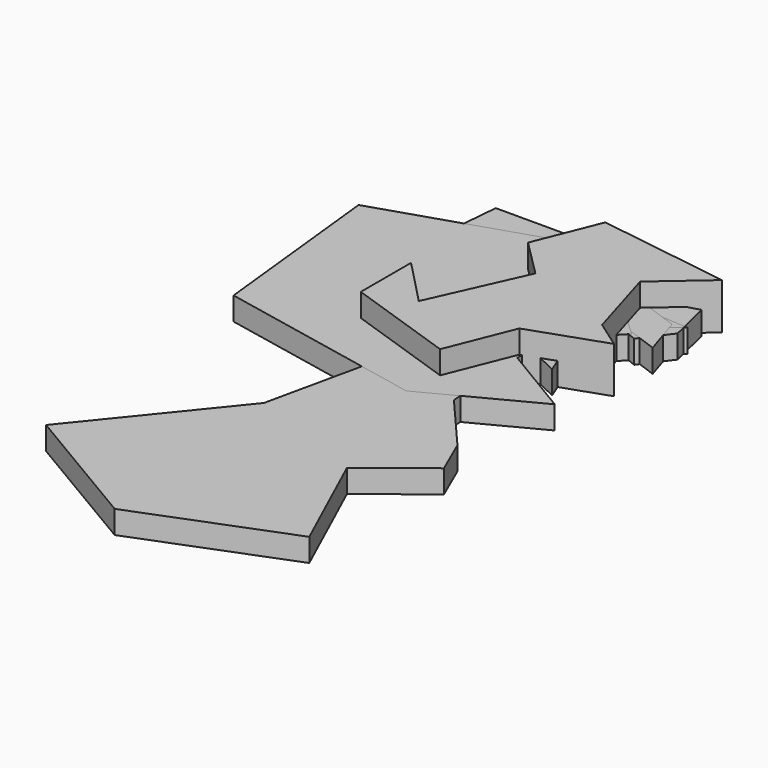
from build123d import *

# Parameters (mm, degrees)
PAD_DEPTH    = 5
PAD001_DEPTH = 5
PAD002_DEPTH = 5
PAD003_DEPTH = 5
PAD004_DEPTH = 5
PAD005_DEPTH = 10


with BuildPart() as body:
    # Sketch → Pad (new body)
    with BuildSketch(Plane.XY):
        Polygon((16.407789, 0), (14.20999, 9.292012), (7.459578, 7.408173), (-1.802612, 16.670362), (-17.344254, 4.268449), (-13.576584, -9.860312), (5.104784, -3.266889), (11.855196, -6.092639), align=None)
    extrude(amount=PAD_DEPTH)


with BuildPart() as body_1:
    # Body placement: moved
    add(body.part.moved(Location((-16.407789, -16.670362, 0))))


with BuildPart() as body001:
    # Sketch002 → Pad001 (new body)
    with BuildSketch(Plane.XY):
        Polygon((0, 23.425846), (7.120159, 10.498806), (22.492847, 9.450668), (8.168289, -2.078853), (14.107744, -16.752783), (0, -10.114574), (-11.04756, -18.150301), (-7.903162, 0), (-19.083288, 10.498806), (-6.505643, 10.498806), align=None)
    extrude(amount=PAD001_DEPTH)


with BuildPart() as body001_1:
    # Body001 placement: moved
    add(body001.part.moved(Location((-22.492847, -23.425846, 0))))


with BuildPart() as body002:
    # Sketch003 → Pad002 (new body)
    with BuildSketch(Plane.XY):
        Polygon((13.758363, 0), (12.01147, 9.80005), (-4.409369, 11.896324), (-28.516535, 11.896324), (-29.564672, 0), (-24.673361, -3.476364), (-26.769636, -16.752783), (-8.601904, -11.162712), (4.325122, -16.054022), (16.5534, -8.717056), (24.239746, -11.512094), (21.44471, -2.777609), align=None)
    extrude(amount=PAD002_DEPTH)


with BuildPart() as body002_1:
    # Body002 placement: moved
    add(body002.part.moved(Location((-24.239746, -11.896324, 0))))


with BuildPart() as body003:
    # Sketch004 → Pad003 (new body)
    with BuildSketch(Plane.XY):
        Polygon((9.915189, -22.692234), (22.842228, -12.56023), (19.348436, -4.524508), (8.517671, 8.05315), (7.120159, 29.365294), (6.421397, 49.279919), (2.578223, 67.447647), (-3.361225, 52.074955), (-6.505643, 30.064049), (-15.93887, -12.909612), (-39.696674, -42.257477), (-11.39694, -59.027687), (20.745955, -46.450031), align=None)
    extrude(amount=PAD003_DEPTH)


with BuildPart() as body003_1:
    # Body003 placement: moved
    add(body003.part.moved(Location((-22.842228, -67.447647, 0))))


with BuildPart() as body004:
    # Sketch005 → Pad004 (new body)
    with BuildSketch(Plane.XY):
        Polygon((13.408981, 0), (28.432302, 15.739498), (5.023878, 37.401024), (-37.251019, 23.775227), (-33.058464, -15.355267), (11.662088, -24.439129), (34.37175, -12.56023), align=None)
    extrude(amount=PAD004_DEPTH)


with BuildPart() as body004_1:
    # Body004 placement: moved
    add(body004.part.moved(Location((-34.37175, -37.401024, 0))))


with BuildPart() as body005:
    # Sketch006 → Pad005 (new body)
    with BuildSketch(Plane.XY):
        Polygon((15.854637, -11.861474), (10.963326, 4.559358), (21.44471, 13.643224), (-7.204406, 17.835772), (-12.794459, 3.860602), (-4.75875, -4.175127), (-13.842596, -24.439129), (-23.625217, -14.307127), (-23.625217, -27.932922), (0, -35.968647), (5.722634, -21.644093), (21.794092, -16.054022), align=None)
    extrude(amount=PAD005_DEPTH)


with BuildPart() as body005_1:
    # Body005 placement: moved
    add(body005.part.moved(Location((-21.794092, -17.835772, 0))))


solid = Compound([body_1.part, body001_1.part, body002_1.part, body003_1.part, body004_1.part, body005_1.part])
